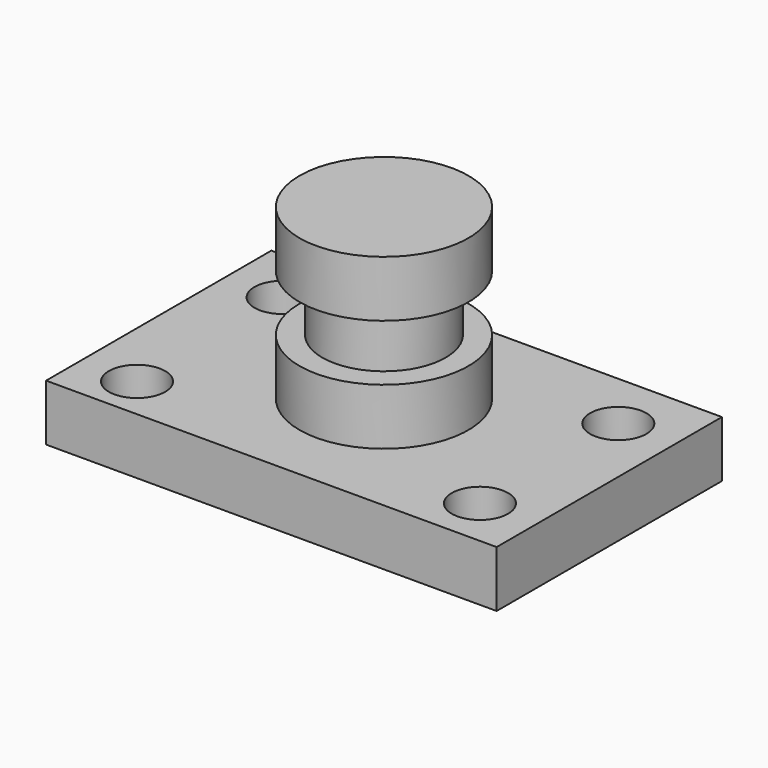
from build123d import *

# Parameters (mm, degrees)
F0_W     = 101.6
F0_H     = 63.5
F1_DEPTH = 12.7
F2_R     = 6.35
F3_DEPTH = 12.701
F4_W     = 19.05
F4_H     = 38.1
F6_W     = 11.628822
F6_H     = 12.7


with BuildPart() as f1:
    # F0 (on Top) → F1 (new body)
    with BuildSketch(Plane.XY):
        Rectangle(F0_W, F0_H)
    extrude(amount=F1_DEPTH)

    # F2 (on face) → F3 (cut, through all)
    with BuildSketch(Plane.XY.offset(12.7)):
        with Locations((-38.1, 19.05)):
            Circle(F2_R)
        with Locations((-38.1, -21.987695)):
            Circle(F2_R)
        with Locations((38.1, 18.410703)):
            Circle(F2_R)
        with Locations((38.1, -20.573199)):
            Circle(F2_R)
    extrude(amount=-F3_DEPTH, mode=Mode.SUBTRACT)

    # F4 (on Front) → F5 (revolve)
    with BuildSketch(Plane.XZ):
        with Locations((-9.525, 31.75)):
            Rectangle(F4_W, F4_H)
    revolve(axis=Axis((0, 0, 31.75), (0, 0, -1)))

    # F6 (on Front) → F7 (revolve, cut)
    with BuildSketch(Plane.XZ):
        with Locations((-19.727555, 31.75)):
            Rectangle(F6_W, F6_H)
    revolve(axis=Axis((0, 0, 28.649839), (0, 0, 1)), mode=Mode.SUBTRACT)


solid = f1.part
